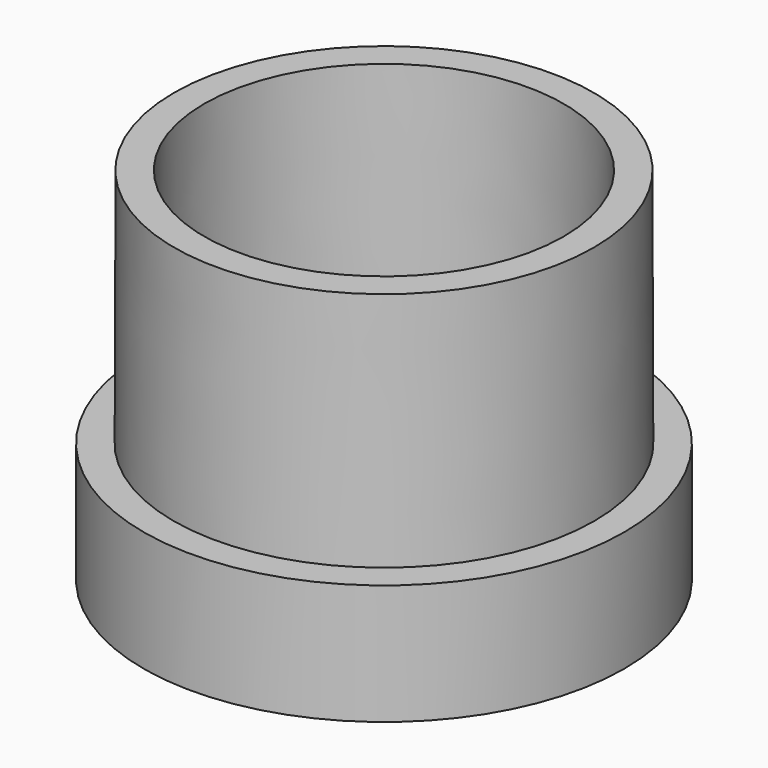
from build123d import *

# Parameters (mm, degrees)
SKETCH_R    = 20
PAD_DEPTH   = 10
SKETCH001_R = 17.5
SKETCH002_R = 17.45
SKETCH003_R = 15
SKETCH004_R = 14.95


with BuildPart() as part:
    # Sketch → Pad (new body)
    with BuildSketch(Plane.XY):
        Circle(SKETCH_R)
    extrude(amount=-PAD_DEPTH)

    # Sketch001 → AdditiveLoft section 0
    with BuildSketch(Plane.XY):
        Circle(SKETCH001_R)
    # Sketch002 (on DatumPlane) → AdditiveLoft section 1
    with BuildSketch(Plane.XY.offset(20)):
        Circle(SKETCH002_R)
    loft()

    # Sketch003 → SubtractiveLoft section 0
    with BuildSketch(Plane.XY):
        Circle(SKETCH003_R)
    # Sketch004 (on DatumPlane) → SubtractiveLoft section 1
    with BuildSketch(Plane.XY.offset(20)):
        Circle(SKETCH004_R)
    loft(mode=Mode.SUBTRACT)


solid = part.part
